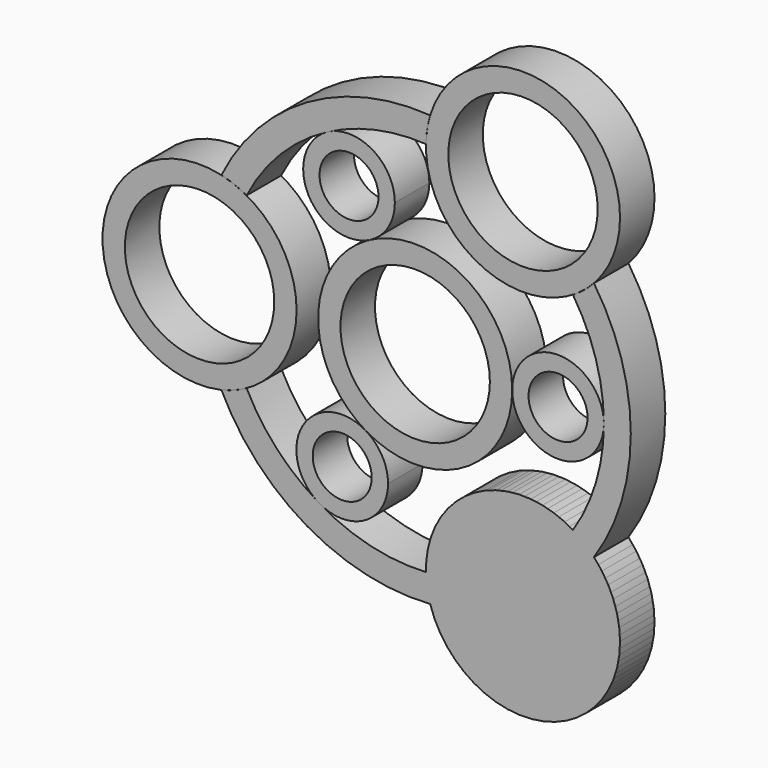
from build123d import *

# Parameters (mm, degrees)
F0_R     = 14.2875
F0_R_2   = 10.9982
F2_DEPTH = 6.35
F1_R     = 4.3434


with BuildPart() as f2:
    # F0 (on Front) → F2 (new body)
    with BuildSketch(Plane.XZ):
        with Locations((-31.75, 0)):
            Circle(F0_R)
        with Locations((-31.75, 0)):
            Circle(F0_R_2, mode=Mode.SUBTRACT)
    extrude(amount=F2_DEPTH)


with BuildPart() as f2b:
    # F0 (on Front) → F2, piece 2 (new body)
    with BuildSketch(Plane.XZ):
        with Locations((15.875, -27.4963065702)):
            Circle(F0_R)
        with Locations((15.875, -27.4963065702)):
            Circle(F0_R_2, mode=Mode.SUBTRACT)
    extrude(amount=F2_DEPTH)


with BuildPart() as f2c:
    # F0 (on Front) → F2, piece 3 (new body)
    with BuildSketch(Plane.XZ):
        Circle(F0_R)
        Circle(F0_R_2, mode=Mode.SUBTRACT)
    extrude(amount=F2_DEPTH)


with BuildPart() as f2d:
    # F0 (on Front) → F2, piece 4 (new body)
    with BuildSketch(Plane.XZ):
        with Locations((15.875, 27.4963065702)):
            Circle(F0_R)
        with Locations((15.875, 27.4963065702)):
            Circle(F0_R_2, mode=Mode.SUBTRACT)
    extrude(amount=F2_DEPTH)


with BuildPart() as f2e:
    # F1 (on Front) → F2, piece 5 (new body)
    with BuildSketch(Plane.XZ):
        with BuildLine():
            ThreePointArc((-24.82016626, -12.4944011696), (-26.6278196588, -13.3377631109), (-28.5353125, -13.9211508334))
            ThreePointArc((-28.5353125, -13.9211508334), (-15.875, -27.4963065702), (2.2115859783, -31.6728809466))
            ThreePointArc((2.2115859783, -31.6728809466), (23.01875, -39.8696445267), (26.3237265217, -17.7517301132))
            ThreePointArc((26.3237265217, -17.7517301132), (24.8647515131, -16.3914867164), (23.2305519479, -15.2476939225))
            ThreePointArc((23.2305519479, -15.2476939225), (8.73125, -15.1229686136), (1.5896143121, -27.7420950921))
            ThreePointArc((1.5896143121, -27.7420950921), (-6.5896091759, -26.9949581342), (-14.1931403047, -23.8894428996))
            ThreePointArc((-14.1931403047, -23.8894428996), (-20.3216944737, -18.9520301677), (-24.82016626, -12.4944011696))
        make_face()
        with BuildLine():
            ThreePointArc((26.3237265217, -17.7517301132), (31.75, 0), (26.3237265217, 17.7517301132))
            ThreePointArc((26.3237265217, 17.7517301132), (24.8647515131, 16.3914867164), (23.2305519479, 15.2476939225))
            ThreePointArc((23.2305519479, 15.2476939225), (26.6239741499, 7.9570543687), (27.7876, 0))
            ThreePointArc((27.7876, 0), (26.6239741499, -7.9570543687), (23.2305519479, -15.2476939225))
            ThreePointArc((23.2305519479, -15.2476939225), (24.8647515131, -16.3914867164), (26.3237265217, -17.7517301132))
        make_face()
    extrude(amount=F2_DEPTH)


with BuildPart() as f2f:
    # F1 (on Front) → F2, piece 6 (new body)
    with BuildSketch(Plane.XZ):
        with BuildLine():
            ThreePointArc((-7.2976613214, -12.283191584), (-16.5485264172, -14.638577782), (-14.1931403047, -23.8894428996))
            ThreePointArc((-14.1931403047, -23.8894428996), (-7.4069309988, -23.9529853791), (-3.9953507594, -18.0863172736))
            ThreePointArc((-3.9953507594, -18.0863172736), (-4.8787326847, -14.7478474588), (-7.2976613214, -12.283191584))
        make_face()
        with Locations((-10.7454007594, -18.0863172736)):
            Circle(F1_R, mode=Mode.SUBTRACT)
    extrude(amount=F2_DEPTH)


with BuildPart() as f2g:
    # F1 (on Front) → F2, piece 7 (new body)
    with BuildSketch(Plane.XZ):
        with BuildLine():
            ThreePointArc((14.2875, 0), (21.03755, -6.75005), (27.7876, 0))
            ThreePointArc((27.7876, 0), (21.03755, 6.75005), (14.2875, 0))
        make_face()
        with Locations((21.03755, 0)):
            Circle(F1_R, mode=Mode.SUBTRACT)
    extrude(amount=F2_DEPTH)


with BuildPart() as f2h:
    # F1 (on Front) → F2, piece 8 (new body)
    with BuildSketch(Plane.XZ):
        with BuildLine():
            ThreePointArc((-2.9919438402, 18.6459664813), (-6.2445703341, 24.4192847491), (-12.8677829294, 24.6286596518))
            ThreePointArc((-12.8677829294, 24.6286596518), (-15.7246869869, 15.5201773466), (-6.61620466, 12.6632733583))
            ThreePointArc((-6.61620466, 12.6632733583), (-3.9686755457, 15.1485430192), (-2.9919438402, 18.6459664813))
        make_face()
        with Locations((-9.7419938402, 18.6459664813)):
            Circle(F1_R, mode=Mode.SUBTRACT)
    extrude(amount=F2_DEPTH)


with BuildPart() as f2i:
    # F1 (on Front) → F2, piece 9 (new body)
    with BuildSketch(Plane.XZ):
        with BuildLine():
            ThreePointArc((1.5896143121, 27.7420950921), (1.7630681457, 29.7292498273), (2.2115859783, 31.6728809466))
            ThreePointArc((2.2115859783, 31.6728809466), (-15.875, 27.4963065702), (-28.5353125, 13.9211508334))
            ThreePointArc((-28.5353125, 13.9211508334), (-26.6278196588, 13.3377631109), (-24.82016626, 12.4944011696))
            ThreePointArc((-24.82016626, 12.4944011696), (-19.7966016213, 19.4998789229), (-12.8677829294, 24.6286596518))
            ThreePointArc((-12.8677829294, 24.6286596518), (-5.8500121282, 27.1648315264), (1.5896143121, 27.7420950921))
        make_face()
    extrude(amount=F2_DEPTH)


solid = Compound([f2.part, f2b.part, f2c.part, f2d.part, f2e.part, f2f.part, f2g.part, f2h.part, f2i.part])
